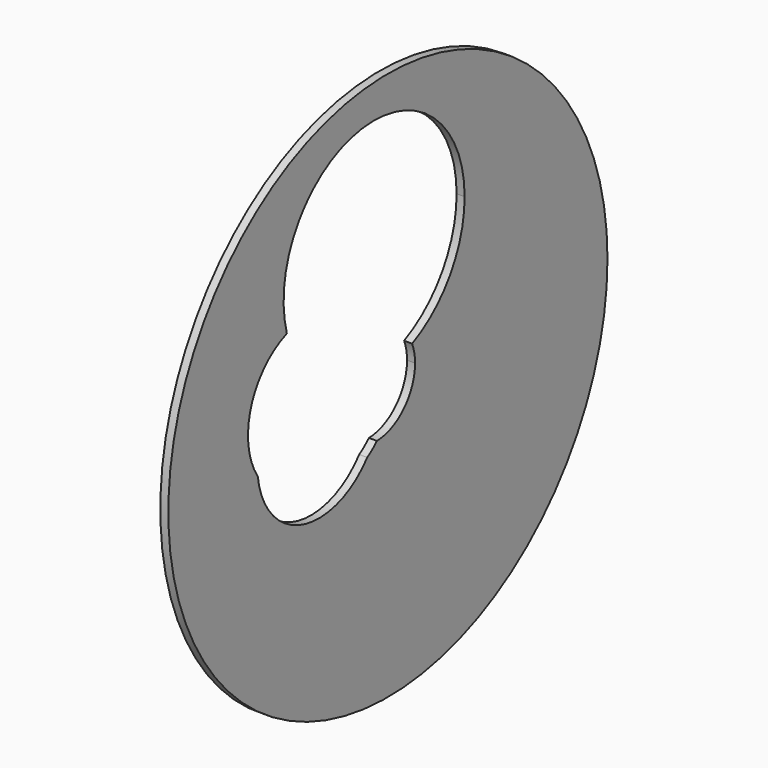
from build123d import *

# Parameters (mm, degrees)
F0_R     = 867.90383
F1_DEPTH = 25.4


with BuildPart() as f1:
    # F0 (on Right) → F1 (new body)
    with BuildSketch(Plane.YZ):
        with Locations((2.751303, 0)):
            Circle(F0_R)
        with BuildLine():
            ThreePointArc((-40.53677, -136.990041), (-58.920438, -153.182187), (-78.931192, -167.314228))
            ThreePointArc((-78.931192, -167.314228), (-336.079003, -250.087811), (-511.507703, -44.658421))
            ThreePointArc((-511.507703, -44.658421), (-538.581397, 158.699875), (-396.658631, 306.840045))
            ThreePointArc((-396.658631, 306.840045), (-99.758173, 756.459172), (305.977955, 401.937753))
            ThreePointArc((305.977955, 401.937753), (249.676008, 209.286369), (98.491348, 77.272493))
            ThreePointArc((98.491348, 77.272493), (107.154412, 48.391442), (110.078777, 18.381245))
            ThreePointArc((110.078777, 18.381245), (66.244476, -89.814503), (-40.53677, -136.990041))
        make_face(mode=Mode.SUBTRACT)
    extrude(amount=F1_DEPTH)


solid = f1.part
